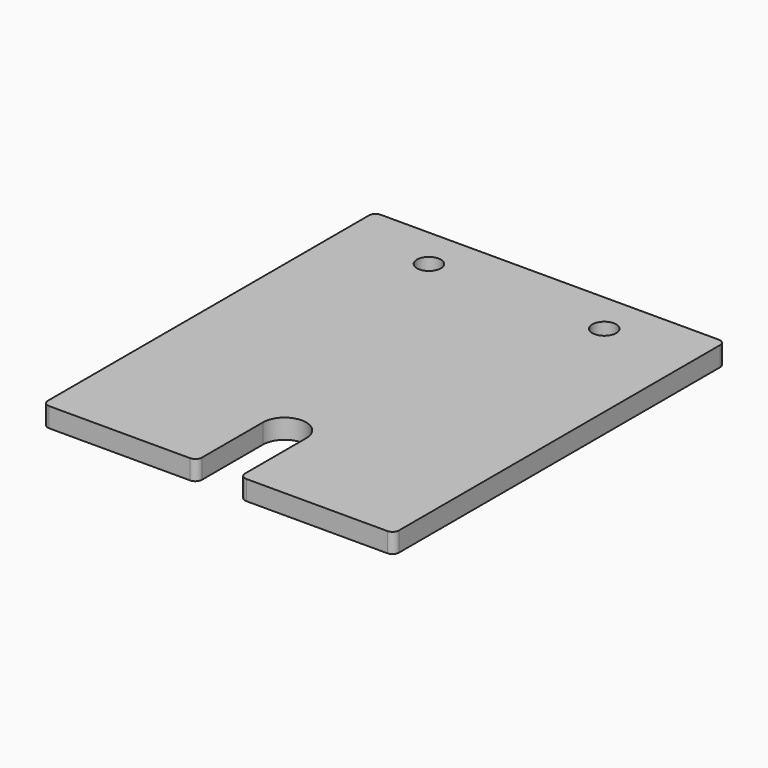
from build123d import *

# Parameters (mm, degrees)
SKETCH_R  = 1.8288
PAD_DEPTH = 3


with BuildPart() as part:
    # Sketch → Pad (new body)
    with BuildSketch(Plane.XY):
        with BuildLine():
            ThreePointArc((-25.9, 31.75), (-26.607107, 31.457107), (-26.9, 30.75))
            Line((-26.9, -30.75), (-26.9, 30.75))
            ThreePointArc((-26.9, -30.75), (-26.607107, -31.457107), (-25.9, -31.75))
            Line((-25.9, -31.75), (-4.302, -31.75))
            ThreePointArc((-4.302, -31.75), (-3.594893, -31.457107), (-3.302, -30.75))
            Line((-3.302, -19.05), (-3.302, -30.75))
            ThreePointArc((3.302, -19.05), (0, -15.748), (-3.302, -19.05))
            Line((3.302, -19.05), (3.302, -30.75))
            ThreePointArc((3.302, -30.75), (3.594893, -31.457107), (4.302, -31.75))
            Line((4.302, -31.75), (25.9, -31.75))
            ThreePointArc((25.9, -31.75), (26.607107, -31.457107), (26.9, -30.75))
            Line((26.9, 30.75), (26.9, -30.75))
            ThreePointArc((26.9, 30.75), (26.607107, 31.457107), (25.9, 31.75))
            Line((-25.9, 31.75), (25.9, 31.75))
        make_face()
        with Locations((-13.4352, 25.4)):
            Circle(SKETCH_R, mode=Mode.SUBTRACT)
        with Locations((13.4352, 25.4)):
            Circle(SKETCH_R, mode=Mode.SUBTRACT)
    extrude(amount=PAD_DEPTH)


solid = part.part
